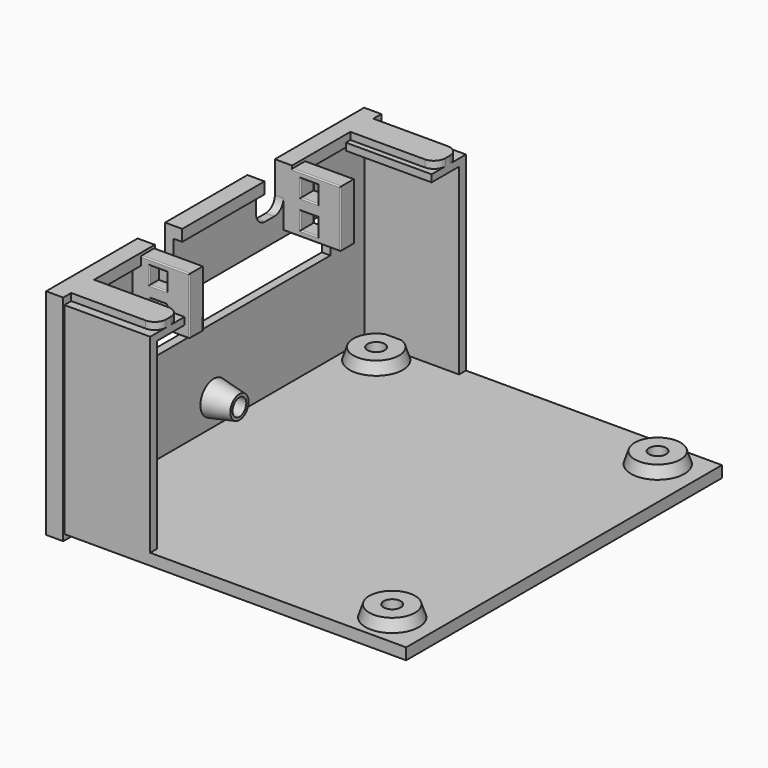
from build123d import *

# Parameters (mm, degrees)
BOX027_W               = 10
BOX027_H               = 6
BOX027_DEPTH           = 15
FILLET013_R            = 2
BOX026_W               = 10
BOX026_H               = 6
BOX026_DEPTH           = 15
FILLET012_R            = 2
BOX042_W               = 5
BOX042_H               = 2
BOX042_DEPTH           = 10
BOX043_W               = 5
BOX043_H               = 2
BOX043_DEPTH           = 10
BOX041_W               = 5
BOX041_H               = 2
BOX041_DEPTH           = 10
BOX045_W               = 5
BOX045_H               = 2
BOX045_DEPTH           = 10
BOX046_W               = 5
BOX046_H               = 2
BOX046_DEPTH           = 10
BOX044_W               = 5
BOX044_H               = 2
BOX044_DEPTH           = 10
BOX048_W               = 5
BOX048_H               = 2
BOX048_DEPTH           = 10
BOX049_W               = 5
BOX049_H               = 2
BOX049_DEPTH           = 10
BOX047_W               = 5
BOX047_H               = 2
BOX047_DEPTH           = 10
BOX039_W               = 5
BOX039_H               = 2
BOX039_DEPTH           = 10
BOX040_W               = 5
BOX040_H               = 2
BOX040_DEPTH           = 10
BOX038_W               = 5
BOX038_H               = 2
BOX038_DEPTH           = 10
BOX029_W               = 49
BOX029_H               = 5
BOX029_DEPTH           = 2
FILLET014_R            = 2
FILLET016_R            = 0.25
BOX030_W               = 49
BOX030_H               = 5
BOX030_DEPTH           = 2
FILLET017_R            = 2
FILLET018_R            = 0.25
BOX031_W               = 15
BOX031_H               = 5
BOX031_DEPTH           = 2
FILLET019_R            = 2
FILLET020_R            = 0.25
BOX028_W               = 15
BOX028_H               = 5
BOX028_DEPTH           = 2
FILLET_R               = 2
FILLET015_R            = 0.25
BOX005_W               = 15
BOX005_H               = 7.5
BOX005_DEPTH           = 34
BOX006_W               = 15
BOX006_H               = 7.5
BOX006_DEPTH           = 34
BOX003_W               = 15
BOX003_H               = 7.5
BOX003_DEPTH           = 34.75
BOX004_W               = 15
BOX004_H               = 7.5
BOX004_DEPTH           = 34.75
BOX037_W               = 3
BOX037_H               = 3
BOX037_DEPTH           = 3
BOX036_W               = 3
BOX036_H               = 3
BOX036_DEPTH           = 3
BOX035_W               = 10
BOX035_H               = 3
BOX035_DEPTH           = 10
FILLET023_R            = 0.2
BOX034_W               = 3
BOX034_H               = 2
BOX034_DEPTH           = 3
BOX033_W               = 3
BOX033_H               = 2
BOX033_DEPTH           = 3
BOX032_W               = 10
BOX032_H               = 3
BOX032_DEPTH           = 10
FILLET022_R            = 0.2
BOX019_W               = 10
BOX019_H               = 5.45
BOX019_DEPTH           = 5
BOX019_PLACEMENT_ANGLE = 30
BOX018_W               = 5.45
BOX018_H               = 10
BOX018_DEPTH           = 5
BOX018_PLACEMENT_ANGLE = 120
BOX017_W               = 5.45
BOX017_H               = 10
BOX017_DEPTH           = 5
CYLINDER007_R          = 1.5
CYLINDER007_DEPTH      = 10
BOX022_W               = 10
BOX022_H               = 5.45
BOX022_DEPTH           = 5
BOX022_PLACEMENT_ANGLE = 30
BOX021_W               = 5.45
BOX021_H               = 10
BOX021_DEPTH           = 5
BOX021_PLACEMENT_ANGLE = 120
BOX020_W               = 5.45
BOX020_H               = 10
BOX020_DEPTH           = 5
CYLINDER008_R          = 1.5
CYLINDER008_DEPTH      = 10
BOX025_W               = 10
BOX025_H               = 5.45
BOX025_DEPTH           = 5
BOX025_PLACEMENT_ANGLE = 30
BOX024_W               = 5.45
BOX024_H               = 10
BOX024_DEPTH           = 5
BOX024_PLACEMENT_ANGLE = 120
BOX023_W               = 5.45
BOX023_H               = 10
BOX023_DEPTH           = 5
CYLINDER009_R          = 1.5
CYLINDER009_DEPTH      = 10
BOX016_W               = 10
BOX016_H               = 5.45
BOX016_DEPTH           = 5
BOX016_PLACEMENT_ANGLE = 30
BOX015_W               = 5.45
BOX015_H               = 10
BOX015_DEPTH           = 5
BOX015_PLACEMENT_ANGLE = 120
BOX014_W               = 5.45
BOX014_H               = 10
BOX014_DEPTH           = 5
CYLINDER006_R          = 1.5
CYLINDER006_DEPTH      = 10
BOX008_W               = 10
BOX008_H               = 51
BOX008_DEPTH           = 7
CYLINDER005_R          = 1.5
CYLINDER005_DEPTH      = 10
CYLINDER004_R          = 1.5
CYLINDER004_DEPTH      = 10
BOX007_W               = 3.5
BOX007_H               = 66
BOX007_DEPTH           = 32.5
BOX001_W               = 3
BOX001_H               = 69.5
BOX001_DEPTH           = 37.5
BOX002_W               = 60
BOX002_H               = 69
BOX002_DEPTH           = 2


with BuildPart() as fillet013:
    # Box027 → Box027 (new body)
    with BuildSketch(Plane.XY.offset(16)):
        with Locations((5, 3)):
            Rectangle(BOX027_W, BOX027_H)
    extrude(amount=BOX027_DEPTH)

    # Fillet013
    fillet013_edges = [fillet013.edges().sort_by_distance(p)[0] for p in [
        (5, 0, 16),
        (5, 6, 16),
    ]]
    fillet(fillet013_edges, radius=FILLET013_R)


with BuildPart() as fillet013_1:
    # Fillet013 placement: moved
    add(fillet013.part.moved(Location((-4, 44, 7))))


with BuildPart() as cables_sockets:
    # Box026 → Box026 (new body)
    with BuildSketch(Plane.XY.offset(16)):
        with Locations((5, 3)):
            Rectangle(BOX026_W, BOX026_H)
    extrude(amount=BOX026_DEPTH)

    # Fillet012
    fillet012_edges = [cables_sockets.edges().sort_by_distance(p)[0] for p in [
        (5, 0, 16),
        (5, 6, 16),
    ]]
    fillet(fillet012_edges, radius=FILLET012_R)


with BuildPart() as cables_sockets_1:
    # Fillet012 placement: moved
    add(cables_sockets.part.moved(Location((-4, 20, 7))))

    # Fusion016: union Fillet013
    add(fillet013_1.part)


with BuildPart() as cables_sockets_2:
    # Fusion016 placement: moved
    add(cables_sockets_1.part.moved(Location((0, 0, 7))))


with BuildPart() as cube042:
    # Box042 → Box042 (new body)
    with BuildSketch(Plane(origin=(30, 2, -3), x_dir=(1, 0, 0), z_dir=(0, 0, 1))):
        with Locations((2.5, 1)):
            Rectangle(BOX042_W, BOX042_H)
    extrude(amount=BOX042_DEPTH)


with BuildPart() as cube043:
    # Box043 → Box043 (new body)
    with BuildSketch(Plane(origin=(39, 2, -3), x_dir=(1, 0, 0), z_dir=(0, 0, 1))):
        with Locations((2.5, 1)):
            Rectangle(BOX043_W, BOX043_H)
    extrude(amount=BOX043_DEPTH)


with BuildPart() as zip_ties_holes_board_l:
    # Box041 → Box041 (new body)
    with BuildSketch(Plane(origin=(21, 2, -3), x_dir=(1, 0, 0), z_dir=(0, 0, 1))):
        with Locations((2.5, 1)):
            Rectangle(BOX041_W, BOX041_H)
    extrude(amount=BOX041_DEPTH)

    # Fusion023: union Cube042, Cube043
    add(cube042.part)
    add(cube043.part)


with BuildPart() as zip_ties_holes_board_l_1:
    # Fusion023 placement: moved
    add(zip_ties_holes_board_l.part.moved(Location((0, 64, 0))))


with BuildPart() as cube045:
    # Box045 → Box045 (new body)
    with BuildSketch(Plane(origin=(30, 2, -3), x_dir=(1, 0, 0), z_dir=(0, 0, 1))):
        with Locations((2.5, 1)):
            Rectangle(BOX045_W, BOX045_H)
    extrude(amount=BOX045_DEPTH)


with BuildPart() as cube046:
    # Box046 → Box046 (new body)
    with BuildSketch(Plane(origin=(39, 2, -3), x_dir=(1, 0, 0), z_dir=(0, 0, 1))):
        with Locations((2.5, 1)):
            Rectangle(BOX046_W, BOX046_H)
    extrude(amount=BOX046_DEPTH)


with BuildPart() as zip_ties_holes_board_r001:
    # Box044 → Box044 (new body)
    with BuildSketch(Plane(origin=(21, 2, -3), x_dir=(1, 0, 0), z_dir=(0, 0, 1))):
        with Locations((2.5, 1)):
            Rectangle(BOX044_W, BOX044_H)
    extrude(amount=BOX044_DEPTH)

    # Fusion024: union Cube045, Cube046
    add(cube045.part)
    add(cube046.part)


with BuildPart() as zip_ties_holes_board_r001_1:
    # Fusion024 placement: moved
    add(zip_ties_holes_board_r001.part.moved(Location((0, 4, 0))))


with BuildPart() as cube048:
    # Box048 → Box048 (new body)
    with BuildSketch(Plane(origin=(30, 2, -3), x_dir=(1, 0, 0), z_dir=(0, 0, 1))):
        with Locations((2.5, 1)):
            Rectangle(BOX048_W, BOX048_H)
    extrude(amount=BOX048_DEPTH)


with BuildPart() as cube049:
    # Box049 → Box049 (new body)
    with BuildSketch(Plane(origin=(39, 2, -3), x_dir=(1, 0, 0), z_dir=(0, 0, 1))):
        with Locations((2.5, 1)):
            Rectangle(BOX049_W, BOX049_H)
    extrude(amount=BOX049_DEPTH)


with BuildPart() as zip_ties_holes_board_l001:
    # Box047 → Box047 (new body)
    with BuildSketch(Plane(origin=(21, 2, -3), x_dir=(1, 0, 0), z_dir=(0, 0, 1))):
        with Locations((2.5, 1)):
            Rectangle(BOX047_W, BOX047_H)
    extrude(amount=BOX047_DEPTH)

    # Fusion025: union Cube048, Cube049
    add(cube048.part)
    add(cube049.part)


with BuildPart() as zip_ties_holes_board_l001_1:
    # Fusion025 placement: moved
    add(zip_ties_holes_board_l001.part.moved(Location((0, 60, 0))))


with BuildPart() as cube039:
    # Box039 → Box039 (new body)
    with BuildSketch(Plane(origin=(30, 2, -3), x_dir=(1, 0, 0), z_dir=(0, 0, 1))):
        with Locations((2.5, 1)):
            Rectangle(BOX039_W, BOX039_H)
    extrude(amount=BOX039_DEPTH)


with BuildPart() as cube040:
    # Box040 → Box040 (new body)
    with BuildSketch(Plane(origin=(39, 2, -3), x_dir=(1, 0, 0), z_dir=(0, 0, 1))):
        with Locations((2.5, 1)):
            Rectangle(BOX040_W, BOX040_H)
    extrude(amount=BOX040_DEPTH)


with BuildPart() as zip_ties_holes:
    # Box038 → Box038 (new body)
    with BuildSketch(Plane(origin=(21, 2, -3), x_dir=(1, 0, 0), z_dir=(0, 0, 1))):
        with Locations((2.5, 1)):
            Rectangle(BOX038_W, BOX038_H)
    extrude(amount=BOX038_DEPTH)

    # Fusion022: union Cube039, Cube040
    add(cube039.part)
    add(cube040.part)

    # Fusion026: union zip ties holes board l, zip ties holes board r001, zip ties holes board l001
    add(zip_ties_holes_board_l_1.part)
    add(zip_ties_holes_board_r001_1.part)
    add(zip_ties_holes_board_l001_1.part)


with BuildPart() as fillet016:
    # Box029 → Box029 (new body)
    with BuildSketch(Plane.XY):
        with Locations((24.5, 2.5)):
            Rectangle(BOX029_W, BOX029_H)
    extrude(amount=BOX029_DEPTH)

    # Fillet014
    fillet014_edges = [fillet016.edges().sort_by_distance(p)[0] for p in [
        (49, 0, 1),
        (49, 5, 1),
    ]]
    fillet(fillet014_edges, radius=FILLET014_R)


with BuildPart() as fillet016_1:
    # Fillet014 placement: moved
    add(fillet016.part.moved(Location((0, 45, 0))))

    # Fillet016
    fillet016_edges = [fillet016_1.edges().sort_by_distance(p)[0] for p in [
        (23.5, 50, 0),
        (23.5, 45, 0),
    ]]
    fillet(fillet016_edges, radius=FILLET016_R)


with BuildPart() as fillet016_2:
    # Fillet016 placement: moved
    add(fillet016_1.part.moved(Location((0, 0.25, 0))))


with BuildPart() as fillet018:
    # Box030 → Box030 (new body)
    with BuildSketch(Plane.XY):
        with Locations((24.5, 2.5)):
            Rectangle(BOX030_W, BOX030_H)
    extrude(amount=BOX030_DEPTH)

    # Fillet017
    fillet017_edges = [fillet018.edges().sort_by_distance(p)[0] for p in [
        (49, 0, 1),
        (49, 5, 1),
    ]]
    fillet(fillet017_edges, radius=FILLET017_R)


with BuildPart() as fillet018_1:
    # Fillet017 placement: moved
    add(fillet018.part.moved(Location((0, 17, 0))))

    # Fillet018
    fillet018_edges = [fillet018_1.edges().sort_by_distance(p)[0] for p in [
        (23.5, 22, 0),
        (23.5, 17, 0),
    ]]
    fillet(fillet018_edges, radius=FILLET018_R)


with BuildPart() as fillet018_2:
    # Fillet018 placement: moved
    add(fillet018_1.part.moved(Location((0, -0.25, 0))))


with BuildPart() as fillet020:
    # Box031 → Box031 (new body)
    with BuildSketch(Plane(origin=(0, -15.25, 0), x_dir=(1, 0, 0), z_dir=(0, 0, 1))):
        with Locations((7.5, 2.5)):
            Rectangle(BOX031_W, BOX031_H)
    extrude(amount=BOX031_DEPTH)

    # Fillet019
    fillet019_edges = [fillet020.edges().sort_by_distance(p)[0] for p in [
        (15, -15.25, 1),
        (15, -10.25, 1),
    ]]
    fillet(fillet019_edges, radius=FILLET019_R)


with BuildPart() as fillet020_1:
    # Fillet019 placement: moved
    add(fillet020.part.moved(Location((0, 17, 0))))

    # Fillet020
    fillet020_edges = [fillet020_1.edges().sort_by_distance(p)[0] for p in [
        (6.5, 6.75, 0),
        (6.5, 1.75, 0),
    ]]
    fillet(fillet020_edges, radius=FILLET020_R)


with BuildPart() as fillet020_2:
    # Fillet020 placement: moved
    add(fillet020_1.part.moved(Location((0, 61, 35.5))))


with BuildPart() as cut009:
    # Box028 → Box028 (new body)
    with BuildSketch(Plane(origin=(0, -15.5, 0), x_dir=(1, 0, 0), z_dir=(0, 0, 1))):
        with Locations((7.5, 2.5)):
            Rectangle(BOX028_W, BOX028_H)
    extrude(amount=BOX028_DEPTH)

    # Fillet
    fillet_edges = [cut009.edges().sort_by_distance(p)[0] for p in [
        (15, -15.5, 1),
        (15, -10.5, 1),
    ]]
    fillet(fillet_edges, radius=FILLET_R)


with BuildPart() as cut009_1:
    # Fillet placement: moved
    add(cut009.part.moved(Location((0, 17, 0))))

    # Fillet015
    fillet015_edges = [cut009_1.edges().sort_by_distance(p)[0] for p in [
        (6.5, 6.5, 0),
        (6.5, 1.5, 0),
    ]]
    fillet(fillet015_edges, radius=FILLET015_R)


with BuildPart() as cut009_2:
    # Fillet015 placement: moved
    add(cut009_1.part.moved(Location((0, 0.25, 35.5))))

    # Fusion017: union Fillet016, Fillet018, Fillet020
    add(fillet016_2.part)
    add(fillet018_2.part)
    add(fillet020_2.part)

    # Cut009: cut zip ties holes
    add(zip_ties_holes.part, mode=Mode.SUBTRACT)


with BuildPart() as cube004:
    # Box005 → Box005 (new body)
    with BuildSketch(Plane(origin=(0, 1.5, 1), x_dir=(1, 0, 0), z_dir=(0, 0, 1))):
        with Locations((7.5, 3.75)):
            Rectangle(BOX005_W, BOX005_H)
    extrude(amount=BOX005_DEPTH)


with BuildPart() as fusion001:
    # Box006 → Box006 (new body)
    with BuildSketch(Plane(origin=(0, 60, 1), x_dir=(1, 0, 0), z_dir=(0, 0, 1))):
        with Locations((7.5, 3.75)):
            Rectangle(BOX006_W, BOX006_H)
    extrude(amount=BOX006_DEPTH)

    # Fusion001: union Cube004
    add(cube004.part)


with BuildPart() as cube002:
    # Box003 → Box003 (new body)
    with BuildSketch(Plane.XY.offset(2)):
        with Locations((7.5, 3.75)):
            Rectangle(BOX003_W, BOX003_H)
    extrude(amount=BOX003_DEPTH)


with BuildPart() as cut001:
    # Box004 → Box004 (new body)
    with BuildSketch(Plane(origin=(0, 61.5, 2), x_dir=(1, 0, 0), z_dir=(0, 0, 1))):
        with Locations((7.5, 3.75)):
            Rectangle(BOX004_W, BOX004_H)
    extrude(amount=BOX004_DEPTH)

    # Fusion002: union Cube002
    add(cube002.part)


with BuildPart() as cut001_1:
    # Fusion002 placement: moved
    add(cut001.part.moved(Location((0, 0, -0.5))))

    # Cut001: cut Fusion001
    add(fusion001.part, mode=Mode.SUBTRACT)


with BuildPart() as cut001_2:
    # Cut001 placement: moved
    add(cut001_1.part.moved(Location((0, 0.25, 0))))


with BuildPart() as cube037:
    # Box037 → Box037 (new body)
    with BuildSketch(Plane(origin=(3, 16, 32), x_dir=(1, 0, 0), z_dir=(0, 0, 1))):
        with Locations((1.5, 1.5)):
            Rectangle(BOX037_W, BOX037_H)
    extrude(amount=BOX037_DEPTH)


with BuildPart() as fusion020:
    # Box036 → Box036 (new body)
    with BuildSketch(Plane(origin=(3, 16, 27), x_dir=(1, 0, 0), z_dir=(0, 0, 1))):
        with Locations((1.5, 1.5)):
            Rectangle(BOX036_W, BOX036_H)
    extrude(amount=BOX036_DEPTH)

    # Fusion020: union Cube037
    add(cube037.part)


with BuildPart() as zip_ties_holder001:
    # Box035 → Box035 (new body)
    with BuildSketch(Plane(origin=(0, 16, 26), x_dir=(1, 0, 0), z_dir=(0, 0, 1))):
        with Locations((5, 1.5)):
            Rectangle(BOX035_W, BOX035_H)
    extrude(amount=BOX035_DEPTH)

    # Cut008: cut Fusion020
    add(fusion020.part, mode=Mode.SUBTRACT)

    # Fillet023
    fillet023_edges = [zip_ties_holder001.edges().sort_by_distance(p)[0] for p in [
        (5, 16, 26),
        (10, 16, 31),
        (5, 16, 36),
        (4.5, 16, 30),
        (6, 16, 28.5),
        (4.5, 16, 27),
        (3, 16, 28.5),
        (4.5, 16, 35),
        (6, 16, 33.5),
        (4.5, 16, 32),
        (3, 16, 33.5),
        (5, 19, 36),
        (10, 19, 31),
        (4.5, 19, 30),
        (6, 19, 28.5),
        (4.5, 19, 27),
        (3, 19, 28.5),
        (4.5, 19, 35),
        (6, 19, 33.5),
        (4.5, 19, 32),
        (3, 19, 33.5),
        (10, 17.5, 26),
    ]]
    fillet(fillet023_edges, radius=FILLET023_R)


with BuildPart() as zip_ties_holder001_1:
    # Fillet023 placement: moved
    add(zip_ties_holder001.part.moved(Location((-1, 27, -1))))


with BuildPart() as cube034:
    # Box034 → Box034 (new body)
    with BuildSketch(Plane(origin=(3, 10, 32), x_dir=(1, 0, 0), z_dir=(0, 0, 1))):
        with Locations((1.5, 1)):
            Rectangle(BOX034_W, BOX034_H)
    extrude(amount=BOX034_DEPTH)


with BuildPart() as fusion019:
    # Box033 → Box033 (new body)
    with BuildSketch(Plane(origin=(3, 10, 27), x_dir=(1, 0, 0), z_dir=(0, 0, 1))):
        with Locations((1.5, 1)):
            Rectangle(BOX033_W, BOX033_H)
    extrude(amount=BOX033_DEPTH)

    # Fusion019: union Cube034
    add(cube034.part)


with BuildPart() as zip_ties_holders:
    # Box032 → Box032 (new body)
    with BuildSketch(Plane(origin=(0, 10, 26), x_dir=(1, 0, 0), z_dir=(0, 0, 1))):
        with Locations((5, 1.5)):
            Rectangle(BOX032_W, BOX032_H)
    extrude(amount=BOX032_DEPTH)

    # Cut007: cut Fusion019
    add(fusion019.part, mode=Mode.SUBTRACT)

    # Fillet022
    fillet022_edges = [zip_ties_holders.edges().sort_by_distance(p)[0] for p in [
        (5, 10, 26),
        (10, 10, 31),
        (5, 10, 36),
        (4.5, 10, 30),
        (6, 10, 28.5),
        (4.5, 10, 27),
        (3, 10, 28.5),
        (4.5, 10, 35),
        (6, 10, 33.5),
        (4.5, 10, 32),
        (3, 10, 33.5),
        (5, 13, 36),
        (10, 13, 31),
        (10, 11.5, 26),
        (3, 11, 30),
        (4.5, 12, 30),
        (6, 11, 30),
        (6, 12, 28.5),
        (6, 11, 27),
        (3, 11, 27),
        (4.5, 12, 27),
        (3, 12, 28.5),
    ]]
    fillet(fillet022_edges, radius=FILLET022_R)


with BuildPart() as zip_ties_holders_1:
    # Fillet022 placement: moved
    add(zip_ties_holders.part.moved(Location((-1, 0, -1))))

    # Fusion021: union zip ties holder001
    add(zip_ties_holder001_1.part)


with BuildPart() as zip_ties_holders_2:
    # Fusion021 placement: moved
    add(zip_ties_holders_1.part.moved(Location((-0.5, 7, 2))))


with BuildPart() as cube019:
    # Box019 → Box019 (new body)
    with BuildSketch(Plane.XY):
        with Locations((5, 2.725)):
            Rectangle(BOX019_W, BOX019_H)
    extrude(amount=BOX019_DEPTH)


with BuildPart() as cube019_1:
    # Box019 placement: moved
    add(cube019.part.moved(Location((0.55, 4, 0))).rotate(Axis((0.55, 4, 0), (0, 0, -1)), BOX019_PLACEMENT_ANGLE))


with BuildPart() as cube018:
    # Box018 → Box018 (new body)
    with BuildSketch(Plane.XY):
        with Locations((2.725, 5)):
            Rectangle(BOX018_W, BOX018_H)
    extrude(amount=BOX018_DEPTH)


with BuildPart() as cube018_1:
    # Box018 placement: moved
    add(cube018.part.moved(Location((11.5, 4, 0))).rotate(Axis((11.5, 4, 0), (0, 0, 1)), BOX018_PLACEMENT_ANGLE))


with BuildPart() as m_25_nut001:
    # Box017 → Box017 (new body)
    with BuildSketch(Plane(origin=(3.25, 0, 0), x_dir=(1, 0, 0), z_dir=(0, 0, 1))):
        with Locations((2.725, 5)):
            Rectangle(BOX017_W, BOX017_H)
    extrude(amount=BOX017_DEPTH)

    # Common001: intersect Cube019, Cube018
    add(cube019_1.part, mode=Mode.INTERSECT)
    add(cube018_1.part, mode=Mode.INTERSECT)


with BuildPart() as m_25_nut001_1:
    # Common001 placement: moved
    add(m_25_nut001.part.moved(Location((-2, 0, -1))))


with BuildPart() as screw_hole001:
    # Cylinder007 → Cylinder007 (new body)
    with BuildSketch(Plane(origin=(4, 4, -1), x_dir=(1, 0, 0), z_dir=(0, 0, 1))):
        Circle(CYLINDER007_R)
    extrude(amount=CYLINDER007_DEPTH)

    # Fusion009: union M.25 nut001
    add(m_25_nut001_1.part)


with BuildPart() as screw_hole001_1:
    # Fusion009 placement: moved
    add(screw_hole001.part.moved(Location((-0.5, 57.5, 0))))


with BuildPart() as cube022:
    # Box022 → Box022 (new body)
    with BuildSketch(Plane.XY):
        with Locations((5, 2.725)):
            Rectangle(BOX022_W, BOX022_H)
    extrude(amount=BOX022_DEPTH)


with BuildPart() as cube022_1:
    # Box022 placement: moved
    add(cube022.part.moved(Location((0.55, 4, 0))).rotate(Axis((0.55, 4, 0), (0, 0, -1)), BOX022_PLACEMENT_ANGLE))


with BuildPart() as cube021:
    # Box021 → Box021 (new body)
    with BuildSketch(Plane.XY):
        with Locations((2.725, 5)):
            Rectangle(BOX021_W, BOX021_H)
    extrude(amount=BOX021_DEPTH)


with BuildPart() as cube021_1:
    # Box021 placement: moved
    add(cube021.part.moved(Location((11.5, 4, 0))).rotate(Axis((11.5, 4, 0), (0, 0, 1)), BOX021_PLACEMENT_ANGLE))


with BuildPart() as m_25_nut002:
    # Box020 → Box020 (new body)
    with BuildSketch(Plane(origin=(3.25, 0, 0), x_dir=(1, 0, 0), z_dir=(0, 0, 1))):
        with Locations((2.725, 5)):
            Rectangle(BOX020_W, BOX020_H)
    extrude(amount=BOX020_DEPTH)

    # Common002: intersect Cube022, Cube021
    add(cube022_1.part, mode=Mode.INTERSECT)
    add(cube021_1.part, mode=Mode.INTERSECT)


with BuildPart() as m_25_nut002_1:
    # Common002 placement: moved
    add(m_25_nut002.part.moved(Location((-2, 0, -1))))


with BuildPart() as screw_hole002:
    # Cylinder008 → Cylinder008 (new body)
    with BuildSketch(Plane(origin=(4, 4, -1), x_dir=(1, 0, 0), z_dir=(0, 0, 1))):
        Circle(CYLINDER008_R)
    extrude(amount=CYLINDER008_DEPTH)

    # Fusion010: union M.25 nut002
    add(m_25_nut002_1.part)


with BuildPart() as screw_hole002_1:
    # Fusion010 placement: moved
    add(screw_hole002.part.moved(Location((48.71, -0.5, 0))))


with BuildPart() as cube025:
    # Box025 → Box025 (new body)
    with BuildSketch(Plane.XY):
        with Locations((5, 2.725)):
            Rectangle(BOX025_W, BOX025_H)
    extrude(amount=BOX025_DEPTH)


with BuildPart() as cube025_1:
    # Box025 placement: moved
    add(cube025.part.moved(Location((0.55, 4, 0))).rotate(Axis((0.55, 4, 0), (0, 0, -1)), BOX025_PLACEMENT_ANGLE))


with BuildPart() as cube024:
    # Box024 → Box024 (new body)
    with BuildSketch(Plane.XY):
        with Locations((2.725, 5)):
            Rectangle(BOX024_W, BOX024_H)
    extrude(amount=BOX024_DEPTH)


with BuildPart() as cube024_1:
    # Box024 placement: moved
    add(cube024.part.moved(Location((11.5, 4, 0))).rotate(Axis((11.5, 4, 0), (0, 0, 1)), BOX024_PLACEMENT_ANGLE))


with BuildPart() as m_25_nut003:
    # Box023 → Box023 (new body)
    with BuildSketch(Plane(origin=(3.25, 0, 0), x_dir=(1, 0, 0), z_dir=(0, 0, 1))):
        with Locations((2.725, 5)):
            Rectangle(BOX023_W, BOX023_H)
    extrude(amount=BOX023_DEPTH)

    # Common003: intersect Cube025, Cube024
    add(cube025_1.part, mode=Mode.INTERSECT)
    add(cube024_1.part, mode=Mode.INTERSECT)


with BuildPart() as m_25_nut003_1:
    # Common003 placement: moved
    add(m_25_nut003.part.moved(Location((-2, 0, -1))))


with BuildPart() as screw_hole003:
    # Cylinder009 → Cylinder009 (new body)
    with BuildSketch(Plane(origin=(4, 4, -1), x_dir=(1, 0, 0), z_dir=(0, 0, 1))):
        Circle(CYLINDER009_R)
    extrude(amount=CYLINDER009_DEPTH)

    # Fusion011: union M.25 nut003
    add(m_25_nut003_1.part)


with BuildPart() as screw_hole003_1:
    # Fusion011 placement: moved
    add(screw_hole003.part.moved(Location((48.71, 57.5, 0))))


with BuildPart() as cube016:
    # Box016 → Box016 (new body)
    with BuildSketch(Plane.XY):
        with Locations((5, 2.725)):
            Rectangle(BOX016_W, BOX016_H)
    extrude(amount=BOX016_DEPTH)


with BuildPart() as cube016_1:
    # Box016 placement: moved
    add(cube016.part.moved(Location((0.55, 4, 0))).rotate(Axis((0.55, 4, 0), (0, 0, -1)), BOX016_PLACEMENT_ANGLE))


with BuildPart() as cube015:
    # Box015 → Box015 (new body)
    with BuildSketch(Plane.XY):
        with Locations((2.725, 5)):
            Rectangle(BOX015_W, BOX015_H)
    extrude(amount=BOX015_DEPTH)


with BuildPart() as cube015_1:
    # Box015 placement: moved
    add(cube015.part.moved(Location((11.5, 4, 0))).rotate(Axis((11.5, 4, 0), (0, 0, 1)), BOX015_PLACEMENT_ANGLE))


with BuildPart() as m_25_nut:
    # Box014 → Box014 (new body)
    with BuildSketch(Plane(origin=(3.25, 0, 0), x_dir=(1, 0, 0), z_dir=(0, 0, 1))):
        with Locations((2.725, 5)):
            Rectangle(BOX014_W, BOX014_H)
    extrude(amount=BOX014_DEPTH)

    # Common: intersect Cube016, Cube015
    add(cube016_1.part, mode=Mode.INTERSECT)
    add(cube015_1.part, mode=Mode.INTERSECT)


with BuildPart() as m_25_nut_1:
    # Common placement: moved
    add(m_25_nut.part.moved(Location((-2, 0, -1))))


with BuildPart() as screw_holes_cut:
    # Cylinder006 → Cylinder006 (new body)
    with BuildSketch(Plane(origin=(4, 4, -1), x_dir=(1, 0, 0), z_dir=(0, 0, 1))):
        Circle(CYLINDER006_R)
    extrude(amount=CYLINDER006_DEPTH)

    # Fusion008: union M.25 nut
    add(m_25_nut_1.part)


with BuildPart() as screw_holes_cut_1:
    # Fusion008 placement: moved
    add(screw_holes_cut.part.moved(Location((-0.5, -0.5, 0))))

    # Fusion012: union screw_hole001, screw_hole002, screw_hole003
    add(screw_hole001_1.part)
    add(screw_hole002_1.part)
    add(screw_hole003_1.part)


with BuildPart() as screw_holes_cut_2:
    # Fusion012 placement: moved
    add(screw_holes_cut_1.part.moved(Location((0, 2.5, -0.7))))


with BuildPart() as cube007:
    # Box008 → Box008 (new body)
    with BuildSketch(Plane(origin=(-5, 9.25, 19), x_dir=(1, 0, 0), z_dir=(0, 0, 1))):
        with Locations((5, 25.5)):
            Rectangle(BOX008_W, BOX008_H)
    extrude(amount=BOX008_DEPTH)


with BuildPart() as cylinder005:
    # Cylinder005 → Cylinder005 (new body)
    with BuildSketch(Plane(origin=(-5, 6, 32.5), x_dir=(0, 0, -1), z_dir=(1, 0, 0))):
        Circle(CYLINDER005_R)
    extrude(amount=CYLINDER005_DEPTH)


with BuildPart() as fusion003:
    # Cylinder004 → Cylinder004 (new body)
    with BuildSketch(Plane(origin=(-5, 6, 32.5), x_dir=(0, 0, -1), z_dir=(1, 0, 0))):
        Circle(CYLINDER004_R)
    extrude(amount=CYLINDER004_DEPTH)

    # Fusion003: union Cylinder005
    add(cylinder005.part)


with BuildPart() as fusion003_1:
    # Fusion003 placement: moved
    add(fusion003.part.moved(Location((0, 28.75, -25))))


with BuildPart() as cone001:
    # Cone001 → Cone001 (revolve)
    with BuildSketch(Plane(origin=(-1, 6, 32.5), x_dir=(0, 0, -1), z_dir=(0, -1, 0))):
        Polygon((0, 0), (3, 0), (2, 5), (0, 5), align=None)
    revolve(axis=Axis((-1, 6, 32.5), (1, 0, 0)))


with BuildPart() as fusion004:
    # Cone → Cone (revolve)
    with BuildSketch(Plane(origin=(-1, 6, 32.5), x_dir=(0, 0, -1), z_dir=(0, -1, 0))):
        Polygon((0, 0), (3, 0), (2, 5), (0, 5), align=None)
    revolve(axis=Axis((-1, 6, 32.5), (1, 0, 0)))

    # Fusion004: union Cone001
    add(cone001.part)


with BuildPart() as fusion004_1:
    # Fusion004 placement: moved
    add(fusion004.part.moved(Location((-1, 28.75, -25))))


with BuildPart() as cube006:
    # Box007 → Box007 (new body)
    with BuildSketch(Plane(origin=(-1.5, 1.75, 3), x_dir=(1, 0, 0), z_dir=(0, 0, 1))):
        with Locations((1.75, 33)):
            Rectangle(BOX007_W, BOX007_H)
    extrude(amount=BOX007_DEPTH)


with BuildPart() as cut004:
    # Box001 → Box001 (new body)
    with BuildSketch(Plane(origin=(-3, 0, 0), x_dir=(1, 0, 0), z_dir=(0, 0, 1))):
        with Locations((1.5, 34.75)):
            Rectangle(BOX001_W, BOX001_H)
    extrude(amount=BOX001_DEPTH)

    # Cut002: cut Cube006
    add(cube006.part, mode=Mode.SUBTRACT)

    # Fusion005: union Fusion004
    add(fusion004_1.part)

    # Cut003: cut Fusion003
    add(fusion003_1.part, mode=Mode.SUBTRACT)

    # Cut004: cut Cube007
    add(cube007.part, mode=Mode.SUBTRACT)


with BuildPart() as cube001:
    # Box002 → Box002 (new body)
    with BuildSketch(Plane(origin=(-0.25, 0.25, 1), x_dir=(1, 0, 0), z_dir=(0, 0, 1))):
        with Locations((30, 34.5)):
            Rectangle(BOX002_W, BOX002_H)
    extrude(amount=BOX002_DEPTH)


with BuildPart() as cone003:
    # Cone003 → Cone003 (revolve)
    with BuildSketch(Plane(origin=(3.5, 61.52, 2), x_dir=(1, 0, 0), z_dir=(0, -1, 0))):
        Polygon((0, 0), (5, 0), (4, 3), (0, 3), align=None)
    revolve(axis=Axis((3.5, 61.52, 2), (0, 0, 1)))


with BuildPart() as cone004:
    # Cone004 → Cone004 (revolve)
    with BuildSketch(Plane(origin=(52.71, 3.5, 2), x_dir=(1, 0, 0), z_dir=(0, -1, 0))):
        Polygon((0, 0), (5, 0), (4, 3), (0, 3), align=None)
    revolve(axis=Axis((52.71, 3.5, 2), (0, 0, 1)))


with BuildPart() as cone005:
    # Cone005 → Cone005 (revolve)
    with BuildSketch(Plane(origin=(52.71, 61.52, 2), x_dir=(1, 0, 0), z_dir=(0, -1, 0))):
        Polygon((0, 0), (5, 0), (4, 3), (0, 3), align=None)
    revolve(axis=Axis((52.71, 61.52, 2), (0, 0, 1)))


with BuildPart() as relay_tray:
    # Cone002 → Cone002 (revolve)
    with BuildSketch(Plane(origin=(3.5, 3.5, 2), x_dir=(1, 0, 0), z_dir=(0, -1, 0))):
        Polygon((0, 0), (5, 0), (4, 3), (0, 3), align=None)
    revolve(axis=Axis((3.5, 3.5, 2), (0, 0, 1)))

    # Fusion013: union Cone003, Cone004, Cone005
    add(cone003.part)
    add(cone004.part)
    add(cone005.part)


with BuildPart() as relay_tray_1:
    # Fusion013 placement: moved
    add(relay_tray.part.moved(Location((0, 2.5, 0))))

    # Fusion014: union Cut004, Cube001
    add(cut004.part)
    add(cube001.part)

    # Cut005: cut Screw holes cut
    add(screw_holes_cut_2.part, mode=Mode.SUBTRACT)

    # Fusion015: union Cut001, zip ties holders
    add(cut001_2.part)
    add(zip_ties_holders_2.part)

    # Fusion028: union Cut009
    add(cut009_2.part)

    # Cut010: cut Cables sockets
    add(cables_sockets_2.part, mode=Mode.SUBTRACT)


solid = relay_tray_1.part
